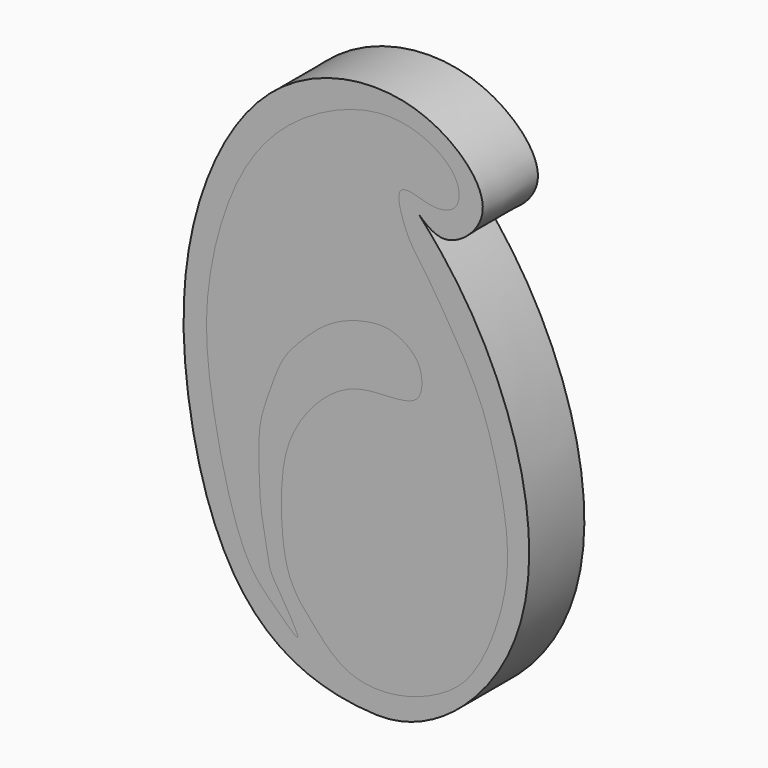
from build123d import *

# Parameters (mm, degrees)
F2_DEPTH = 12.7


with BuildPart() as f2:
    # F0 (on Front) → F2 (new body)
    with BuildSketch(Plane.XZ):
        with BuildLine():
            add(Edge.make_bspline(
                [(0, -47.8166267276), (-10.9558918474, -47.3766533997), (-26.6833507149, -39.3836371392), (-36.0276045303, -8.9121696409), (-36.1390853731, 21.90941137), (-20.7114514603, 51.9750770113), (7.7413624042, 56.6916333093), (23.7968164148, 41.2101930887), (13.4790285722, 31.8659302339), (9.8541291079, 34.0645992349), (7.8905327246, 35.8230173588)],
                knots=[0, 0, 0, 0, 0.1413129616, 0.290333585, 0.444081501, 0.5972264037, 0.7363070816, 0.8488153538, 0.9321079114, 1, 1, 1, 1], degree=3))
            add(Edge.make_bspline(
                [(0, -47.8166267276), (9.1082704419, -48.0957175781), (26.5100682516, -34.1727540842), (29.9804489904, -6.0649969922), (20.7118457699, 19.7947540572), (12.2160486481, 31.0520825506), (7.8905327246, 35.8230173588)],
                knots=[0, 0, 0, 0, 0.2591223308, 0.5190123413, 0.7767567868, 1, 1, 1, 1], degree=3))
        make_face()
    extrude(amount=F2_DEPTH)


with BuildPart() as f2b:
    # F1 (on Front) → F2, piece 2 (new body)
    with BuildSketch(Plane.XZ):
        with BuildLine():
            add(Edge.make_bspline(
                [(-14.5185794681, -39.926096797), (-14.6807043155, -40.3283086288), (-19.2550673382, -35.7364632763), (-25.2546806982, -30.5797687754), (-31.0884915634, -5.7422444107), (-31.9306952866, 11.3664699249), (-26.8477351962, 30.285512512), (-17.7059230903, 42.7785671979), (-4.4618784227, 49.9400777659), (6.4528097085, 50.5800290507), (15.4947307629, 45.0552625679), (15.3986484918, 38.6799180482), (10.8488910962, 37.7376271569), (8.205524643, 38.614397308), (2.7703407778, 40.0243893125), (5.669719464, 31.1724793632), (8.5326126951, 27.8630756997), (15.2113722681, 17.1119793814), (19.9925477213, 8.3587020636), (23.834924702, -6.4188680555), (24.8684209418, -19.7715354547), (18.8947209169, -35.4231464217), (12.0313101919, -40.8660289218), (3.2978944593, -44.1394882564), (-6.2278077196, -43.3093364998), (-12.104421416, -36.2889633819), (-17.3267532569, -30.6665153136), (-17.9826258196, -15.0852277776), (-15.8004211305, -6.7740057565), (-10.4780295373, 0.3880952518), (-3.5784207076, 4.8191370089), (4.4916670495, 4.3434657571), (8.3034787626, 5.8685723784), (8.5321948374, 10.0209504875), (7.2216181978, 12.9794509744), (3.7557776325, 15.2755718459), (-0.099995132, 16.0305884366), (-8.031353432, 13.9563110535), (-13.533009188, 8.8288356561), (-17.3127357539, 4.7549045598), (-19.0851402215, 0.0669301362), (-21.2308007307, -5.7885047826), (-21.8742114191, -10.1049140773), (-21.519745038, -21.4974253605), (-20.5653177974, -24.6728786609), (-19.8614779678, -30.5010762132), (-18.6749161779, -32.377493169), (-14.3132307561, -39.4166518663), (-14.5185794681, -39.926096797)],
                knots=[0, 0, 0, 0, 0.0170759413, 0.0401110326, 0.0779385277, 0.1108524893, 0.1440961728, 0.1742163222, 0.2034081652, 0.2286064215, 0.2523624411, 0.2690957777, 0.2838772348, 0.2976745762, 0.3120041541, 0.3319805061, 0.3496277753, 0.3761462181, 0.4012032421, 0.4306692152, 0.4593320764, 0.4899831638, 0.5123947091, 0.535462011, 0.5584813362, 0.580925855, 0.6021329141, 0.6317525827, 0.6546351211, 0.6769840881, 0.6987896321, 0.7203802456, 0.7347486841, 0.7492769535, 0.7630160085, 0.778111028, 0.7931806592, 0.8147833137, 0.8360407813, 0.8538701792, 0.8710962301, 0.8897995488, 0.9066665225, 0.93205342, 0.9471512606, 0.9645181599, 0.9783714674, 1, 1, 1, 1], degree=3))
        make_face()
    extrude(amount=F2_DEPTH)


solid = Compound([f2.part, f2b.part])
